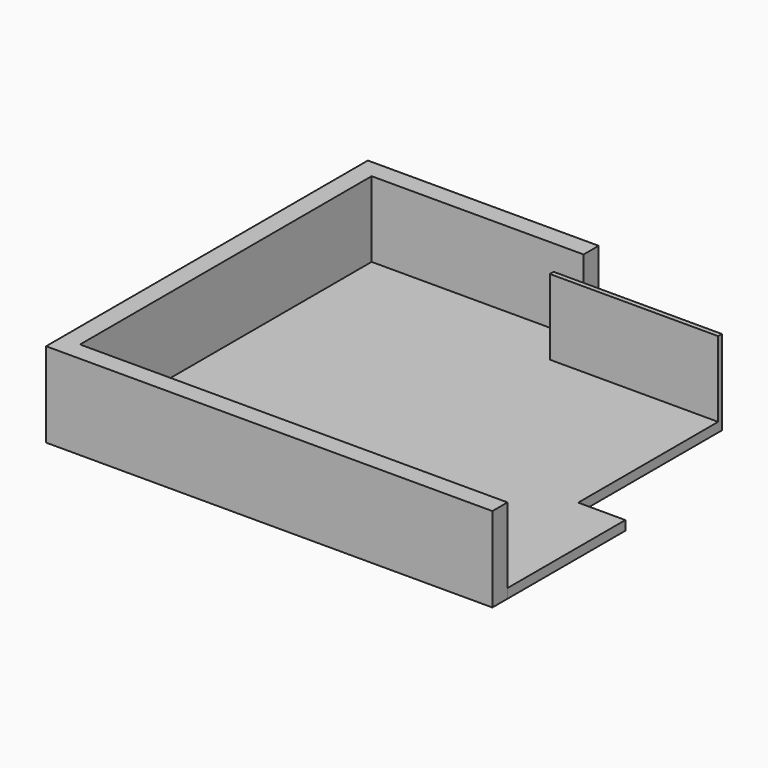
from build123d import *

# Parameters (mm, degrees)
F1_DEPTH = 200
F2_DEPTH = 1800
F0_W     = 3570
F0_H     = 100
F3_DEPTH = 1800


with BuildPart() as f1:
    # F0 (on Top) → F1 (new body)
    with BuildSketch(Plane.XY):
        Polygon((-104.762549762, -3105.3136634827), (8960.237450238, -3105.3136634827), (8960.237450238, -3030.8116634827), (8960.237450238, 19.6863365173), (7960.237450238, 19.6863365173), (7960.237450238, 3729.6863365173), (4390.237450238, 3729.6863365173), (4390.237450238, 3829.6863365173), (4390.237450238, 4624.6863365173), (-104.762549762, 4624.6863365173), align=None)
    extrude(amount=F1_DEPTH)

    # F0 (on Top) → F2 (join)
    with BuildSketch(Plane.XY):
        Polygon((-109.762549762, 4629.6863365173), (-109.762549762, -3110.3136634827), (8960.237450238, -3110.3136634827), (8960.237450238, -3105.3136634827), (-104.762549762, -3105.3136634827), (-104.762549762, 4624.6863365173), (4390.237450238, 4624.6863365173), (4390.237450238, 4629.6863365173), align=None)
        Polygon((8960.237450238, -3110.3136634827), (-109.762549762, -3110.3136634827), (-109.762549762, 4629.6863365173), (4390.237450238, 4629.6863365173), (4390.237450238, 4624.6863365173), (4390.2375772595, 4624.6863365173), (4390.2375772595, 5024.6863365173), (-504.762549762, 5024.6863365173), (-504.762549762, -3505.3136634827), (8960.2375772595, -3505.3136634827), (8960.2375772595, -3105.3136634827), (8960.237450238, -3105.3136634827), align=None)
    extrude(amount=F2_DEPTH)

    # F0 (on Top) → F3 (join)
    with BuildSketch(Plane.XY):
        with Locations((6175.237450238, 3779.6863365173)):
            Rectangle(F0_W, F0_H)
    extrude(amount=F3_DEPTH)


solid = f1.part
